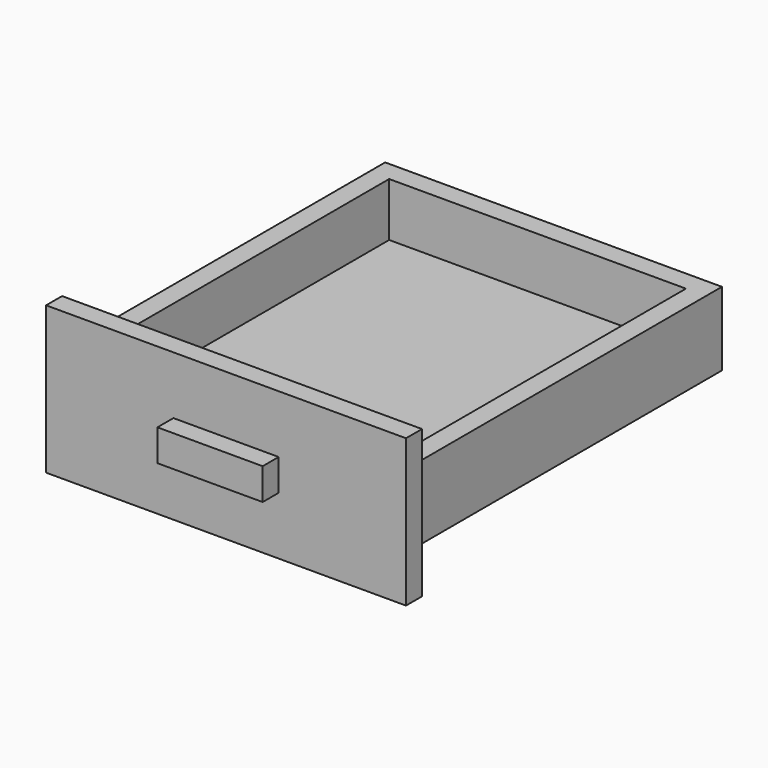
from build123d import *

# Parameters (mm, degrees)
F0_W     = 320
F0_H     = 370
F1_DEPTH = 70
F2_W     = 282
F2_H     = 332
F3_DEPTH = 51
F4_W     = 342
F4_H     = 140
F4_W_2   = 320
F4_H_2   = 70
F5_DEPTH = 19
F6_W     = 100
F6_H     = 30
F7_DEPTH = 19


with BuildPart() as f1:
    # F0 (on Top) → F1 (new body)
    with BuildSketch(Plane.XY):
        Rectangle(F0_W, F0_H)
    extrude(amount=F1_DEPTH)

    # F2 (on face) → F3 (cut)
    with BuildSketch(Plane.XY.offset(70)):
        Rectangle(F2_W, F2_H)
    extrude(amount=-F3_DEPTH, mode=Mode.SUBTRACT)

    # F4 (on face) → F5 (join)
    with BuildSketch(Plane.XZ.offset(185)):
        with Locations((0, 35)):
            Rectangle(F4_W, F4_H)
        with Locations((0, 35)):
            Rectangle(F4_W_2, F4_H_2, mode=Mode.SUBTRACT)
        with Locations((0, 35)):
            Rectangle(F4_W_2, F4_H_2)
    extrude(amount=F5_DEPTH)

    # F6 (on face) → F7 (join)
    with BuildSketch(Plane.XZ.offset(204)):
        with Locations((0, 35)):
            Rectangle(F6_W, F6_H)
    extrude(amount=F7_DEPTH)


solid = f1.part
